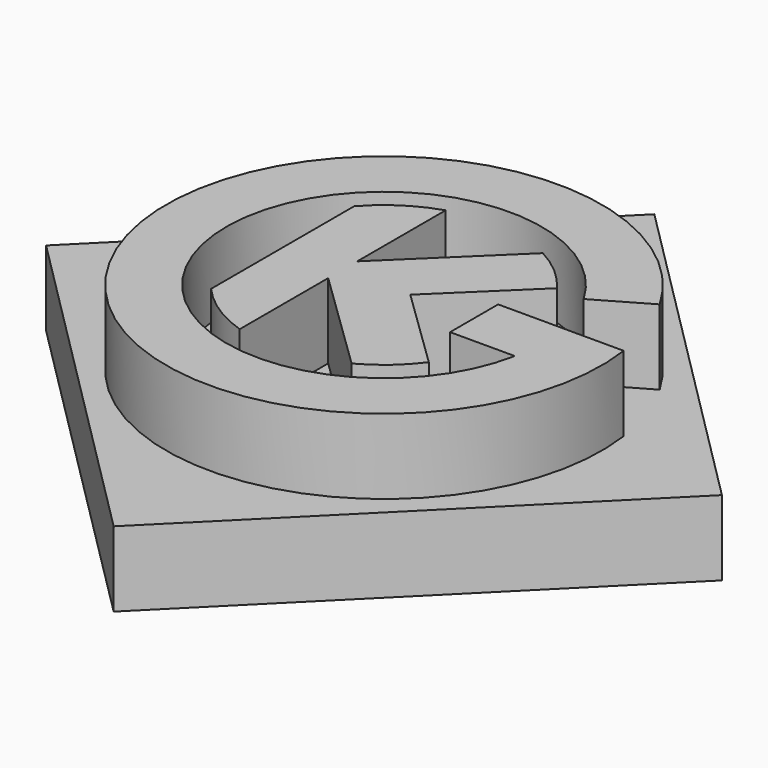
from build123d import *

# Parameters (mm, degrees)
F1_DEPTH = 10
F3_DEPTH = 10
F5_DEPTH = 10


with BuildPart() as f1:
    # F0 (on Top) → F1 (new body)
    with BuildSketch(Plane.XY):
        Polygon((45, 0), (0, 45), (-45, 0), (0, -45), align=None)
    extrude(amount=F1_DEPTH)

    # F2 (on face) → F3 (join)
    with BuildSketch(Plane.XY.offset(10)):
        with BuildLine():
            Line((18.186533, 10.5), (25.114737, 14.5))
            ThreePointArc((25.114737, 14.5), (-27.425954, -9.42428), (28.722813, 4))
            Line((28.722813, 4), (12, 4))
            Line((12, 4), (12, -4))
            Line((12, -4), (20.615528, -4))
            ThreePointArc((20.615528, -4), (-20.71141, -3.469511), (18.186533, 10.5))
        make_face()
    extrude(amount=F3_DEPTH)

    # F4 (on face) → F5 (join)
    with BuildSketch(Plane.XY.offset(10)):
        with BuildLine():
            Line((3.5, 0), (14.5, 10.665365))
            ThreePointArc((14.5, 10.665365), (11.754954, 13.631619), (8.417301, 15.910658))
            Line((8.417301, 15.910658), (-5.5, 2.416741))
            Line((-5.5, 2.416741), (-5.5, -2.416741))
            Line((-5.5, -2.416741), (8.417301, -15.910658))
            ThreePointArc((8.417301, -15.910658), (11.754954, -13.631619), (14.5, -10.665365))
            Line((14.5, -10.665365), (3.5, 0))
        make_face()
        with BuildLine():
            Line((-5.5, -2.416741), (-5.5, 2.416741))
            Line((-5.5, 2.416741), (-5.5, 17.139137))
            ThreePointArc((-5.5, 17.139137), (-9.853768, 15.063308), (-13.5, 11.905881))
            Line((-13.5, 11.905881), (-13.5, -11.905881))
            ThreePointArc((-13.5, -11.905881), (-9.853768, -15.063308), (-5.5, -17.139137))
            Line((-5.5, -17.139137), (-5.5, -2.416741))
        make_face()
    extrude(amount=F5_DEPTH)


solid = f1.part
